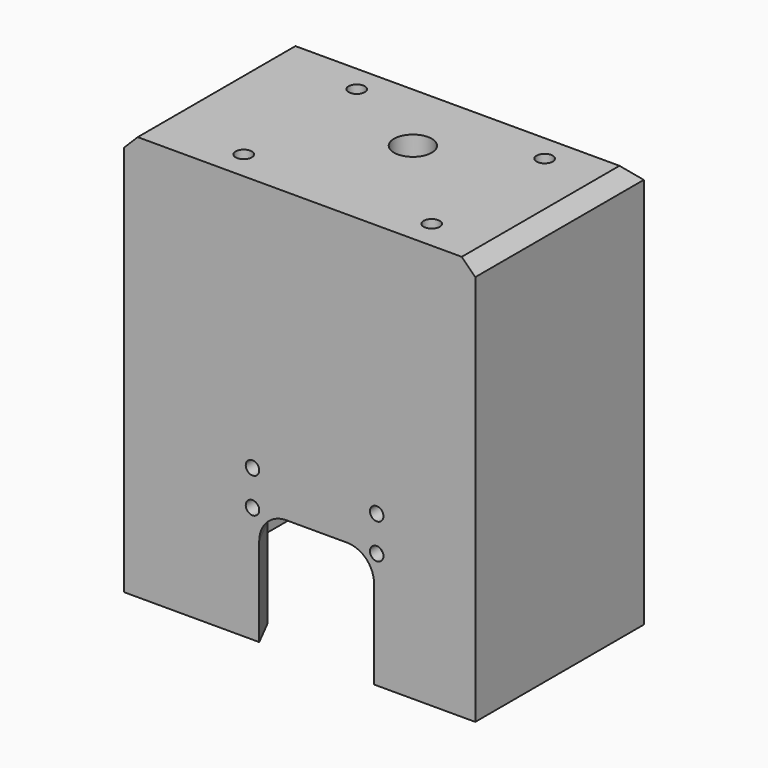
from build123d import *

# Parameters (mm, degrees)
F0_W      = 130
F0_H      = 78
F14_DEPTH = 150
F1_SIZE   = 5
F2_DEPTH  = 67.5
F4_R      = 6
F5_DEPTH  = 150.001
F6_R      = 7
F6_R_2    = 3
F7_DEPTH  = 25
F9_R      = 2.5
F10_DEPTH = 10.501
F11_DEPTH = 25
F11_TAPER = -27
F12_R     = 3
F13_DEPTH = 25


with BuildPart() as f14:
    # F0 (on Top) → F14 (new body)
    with BuildSketch(Plane.XY):
        Rectangle(F0_W, F0_H)
    extrude(amount=-F14_DEPTH)

    # F1
    f1_edges = [f14.edges().sort_by_distance(p)[0] for p in [
        (65, 0, 0),
        (-65, 0, 0),
        (0, 39, 0),
    ]]
    chamfer(f1_edges, length=F1_SIZE)

    # F15 (on face) → F2 (cut)
    with BuildSketch(Plane(origin=(0, 39, 0), x_dir=(-1, 0, 0), z_dir=(0, 1, 0))):
        Polygon((-16, -9), (-56, -9), (-56, -150), (56, -150), (56, -9), (16, -9), (16, -22), (-16, -22), align=None)
    extrude(amount=-F2_DEPTH, mode=Mode.SUBTRACT)

    # F4 (on face) → F5 (cut, through all)
    with BuildSketch(Plane.XY):
        with Locations((5.5, 6.5)):
            Circle(F4_R)
    extrude(amount=-F5_DEPTH, mode=Mode.SUBTRACT)

    # F6 (on face) → F7 (cut)
    with BuildSketch(Plane.XY):
        with Locations((5.5, 6.5)):
            Circle(F6_R)
        with Locations((-29.3, -28.3)):
            Circle(F6_R_2)
        with Locations((-29.3, 41.3)):
            Circle(F6_R_2)
        with Locations((40.3, 41.3)):
            Circle(F6_R_2)
        with Locations((40.3, -28.3)):
            Circle(F6_R_2)
    extrude(amount=-F7_DEPTH, mode=Mode.SUBTRACT)

    # F9 (on face) → F10 (cut, through all)
    with BuildSketch(Plane(origin=(0, -28.5, 0), x_dir=(-1, 0, 0), z_dir=(0, 1, 0))):
        with Locations((-28.5, -94)):
            Circle(F9_R)
        with Locations((-28.5, -107)):
            Circle(F9_R)
        with Locations((17.5, -94)):
            Circle(F9_R)
        with Locations((17.5, -107)):
            Circle(F9_R)
    extrude(amount=-F10_DEPTH, mode=Mode.SUBTRACT)

    # F16 (on face) → F11 (cut)
    with BuildSketch(Plane.XZ.offset(39)):
        with BuildLine():
            Line((17.5, -107), (-5, -107))
            ThreePointArc((-5, -107), (-12.0710678119, -109.9289321881), (-15, -117))
            Line((-15, -117), (-15, -150))
            Line((-15, -150), (27.5, -150))
            Line((27.5, -150), (27.5, -117))
            ThreePointArc((27.5, -117), (24.5710678119, -109.9289321881), (17.5, -107))
        make_face()
    extrude(amount=-F11_DEPTH, taper=F11_TAPER, mode=Mode.SUBTRACT)

    # F12 (on face) → F13 (cut)
    with BuildSketch(Plane.XY):
        with Locations((-29.3, 24)):
            Circle(F12_R)
        with Locations((40.3, 24)):
            Circle(F12_R)
    extrude(amount=-F13_DEPTH, mode=Mode.SUBTRACT)


solid = f14.part
